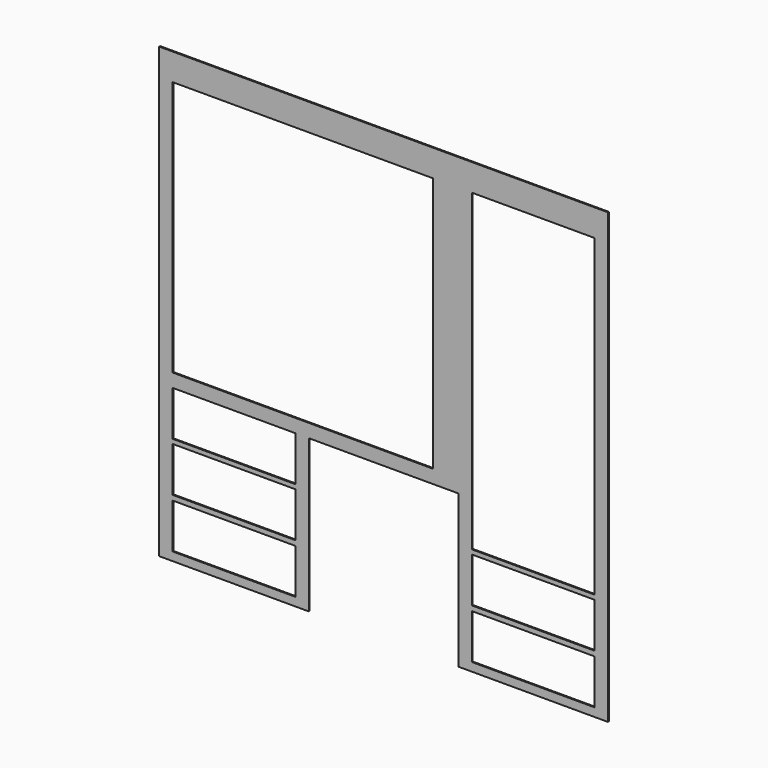
from build123d import *

# Parameters (mm, degrees)
F0_W      = 1270
F0_H      = 1270
F1_DEPTH  = 1.5875
F2_W      = 736.6
F2_H      = 723.9
F3_DEPTH  = 3.176
F2_W_2    = 347.218
F2_H_2    = 889
F4_DEPTH  = 3.176
F2_H_3    = 127
F5_DEPTH  = 3.176
F6_DEPTH  = 3.176
F7_DEPTH  = 3.176
F2_W_3    = 423.164
F2_H_4    = 431.8
F8_DEPTH  = 3.176
F9_DEPTH  = 3.176
F10_DEPTH = 3.176


with BuildPart() as f1:
    # F0 (on Front) → F1 (new body, symmetric)
    with BuildSketch(Plane.XZ):
        with Locations((-0.489235, 87.176618)):
            Rectangle(F0_W, F0_H)
    extrude(amount=F1_DEPTH, both=True)

    # F2 (on face) → F3 (cut, through all)
    with BuildSketch(Plane.XZ.offset(1.5875)):
        with Locations((-229.089235, 284.026618)):
            Rectangle(F2_W, F2_H)
    extrude(amount=-F3_DEPTH, mode=Mode.SUBTRACT)

    # F2 (on face) → F4 (cut, through all)
    with BuildSketch(Plane.XZ.offset(1.5875)):
        with Locations((422.801765, 201.476618)):
            Rectangle(F2_W_2, F2_H_2)
    extrude(amount=-F4_DEPTH, mode=Mode.SUBTRACT)

    # F2 (on face) → F5 (cut, through all)
    with BuildSketch(Plane.XZ.offset(1.5875)):
        with Locations((-423.780235, -179.523382)):
            Rectangle(F2_W_2, F2_H_3)
    extrude(amount=-F5_DEPTH, mode=Mode.SUBTRACT)

    # F2 (on face) → F6 (cut, through all)
    with BuildSketch(Plane.XZ.offset(1.5875)):
        with Locations((-423.780235, -319.223382)):
            Rectangle(F2_W_2, F2_H_3)
    extrude(amount=-F6_DEPTH, mode=Mode.SUBTRACT)

    # F2 (on face) → F7 (cut, through all)
    with BuildSketch(Plane.XZ.offset(1.5875)):
        with Locations((-423.780235, -460.295247)):
            Rectangle(F2_W_2, F2_H_3)
    extrude(amount=-F7_DEPTH, mode=Mode.SUBTRACT)

    # F2 (on face) → F8 (cut, through all)
    with BuildSketch(Plane.XZ.offset(1.5875)):
        with Locations((-0.489235, -331.923382)):
            Rectangle(F2_W_3, F2_H_4)
    extrude(amount=-F8_DEPTH, mode=Mode.SUBTRACT)

    # F2 (on face) → F9 (cut, through all)
    with BuildSketch(Plane.XZ.offset(1.5875)):
        with Locations((422.801765, -319.223382)):
            Rectangle(F2_W_2, F2_H_3)
    extrude(amount=-F9_DEPTH, mode=Mode.SUBTRACT)

    # F2 (on face) → F10 (cut, through all)
    with BuildSketch(Plane.XZ.offset(1.5875)):
        with Locations((422.801765, -460.295247)):
            Rectangle(F2_W_2, F2_H_3)
    extrude(amount=-F10_DEPTH, mode=Mode.SUBTRACT)


solid = f1.part
